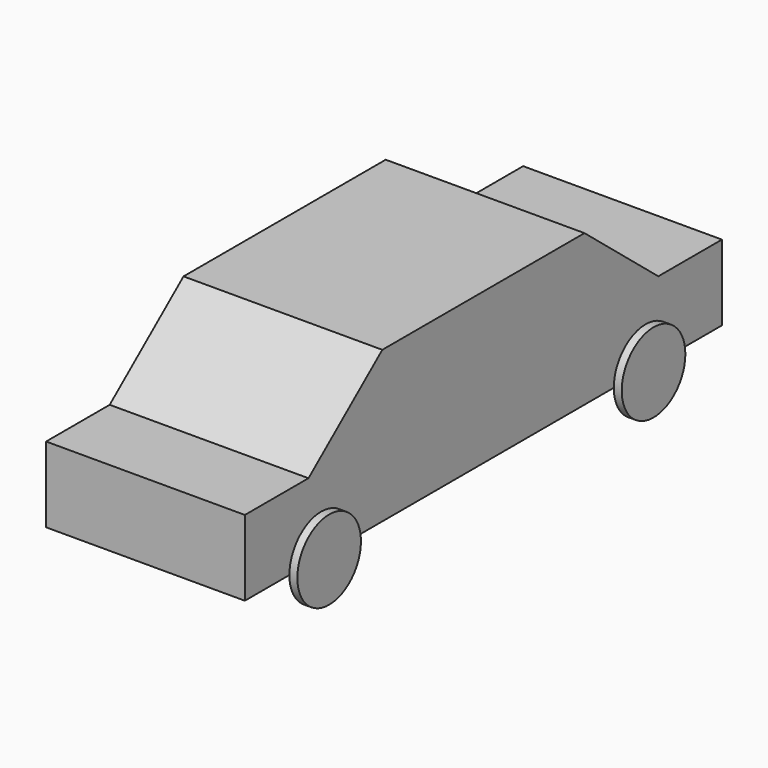
from build123d import *

# Parameters (mm, degrees)
F0_W     = 25
F0_H     = 37.5
F1_DEPTH = 19
F2_R     = 5
F3_DEPTH = 1
F5_DEPTH = 25.001


with BuildPart() as f1:
    # F0 (on Top) → F1 (new body)
    with BuildSketch(Plane.XY):
        with Locations((0, 18.75)):
            Rectangle(F0_W, F0_H)
    extrude(amount=F1_DEPTH)

    # F4 (on face) → F5 (cut, through all)
    with BuildSketch(Plane.YZ.offset(12.5)):
        Polygon((27.5, 9.5), (37.5, 9.5), (37.5, 19), (15.8918132338, 19), align=None)
    extrude(amount=-F5_DEPTH, mode=Mode.SUBTRACT)



with BuildPart() as f3:
    # F2 (on face) → F3 (new body)
    with BuildSketch(Plane.YZ.offset(12.5)):
        with Locations((25.5, 0)):
            Circle(F2_R)
    extrude(amount=F3_DEPTH)


with BuildPart() as f1_1:
    add(f1.part)

    add(f3.part)  # F6 merges F3
    # F6: F1, F3 across plane
    add(f1.part.mirror(Plane.YZ))
    add(f3.part.mirror(Plane.YZ))

    # F7: F1 across plane


with BuildPart() as f1_2:
    add(f1_1.part)
    add(f1_1.part.mirror(Plane.XZ))


solid = f1_2.part
